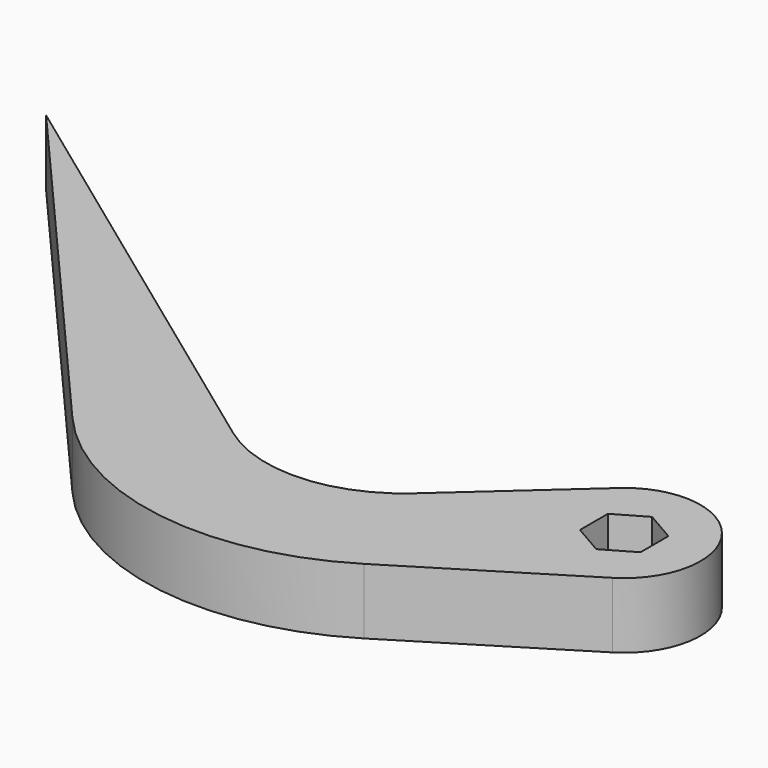
from build123d import *

# Parameters (mm, degrees)
F1_DEPTH = 3.8


with BuildPart() as f1:
    # F0 (on Top) → F1 (new body)
    with BuildSketch(Plane.XY):
        with BuildLine():
            Line((0, 0), (-7.049139, -6.320452))
            ThreePointArc((-7.049139, -6.320452), (-11.988471, -8.35405), (-17.1067, -6.825574))
            Line((-17.1067, -6.825574), (-43.143667, 12.181773))
            Line((-43.143667, 12.181773), (-23.71722, -10.197147))
            ThreePointArc((-23.71722, -10.197147), (-14.647426, -15.193244), (-4.501753, -13.122628))
            Line((-4.501753, -13.122628), (5.114132, -7.177569))
            ThreePointArc((5.114132, -7.177569), (6.388362, -0.858925), (0, 0))
        make_face()
        Polygon((2.791903, -5.442186), (1.041903, -4.431823), (1.041903, -2.411097), (2.791903, -1.400734), (4.541903, -2.411097), (4.541903, -4.431823), align=None, mode=Mode.SUBTRACT)
    extrude(amount=F1_DEPTH)


solid = f1.part
